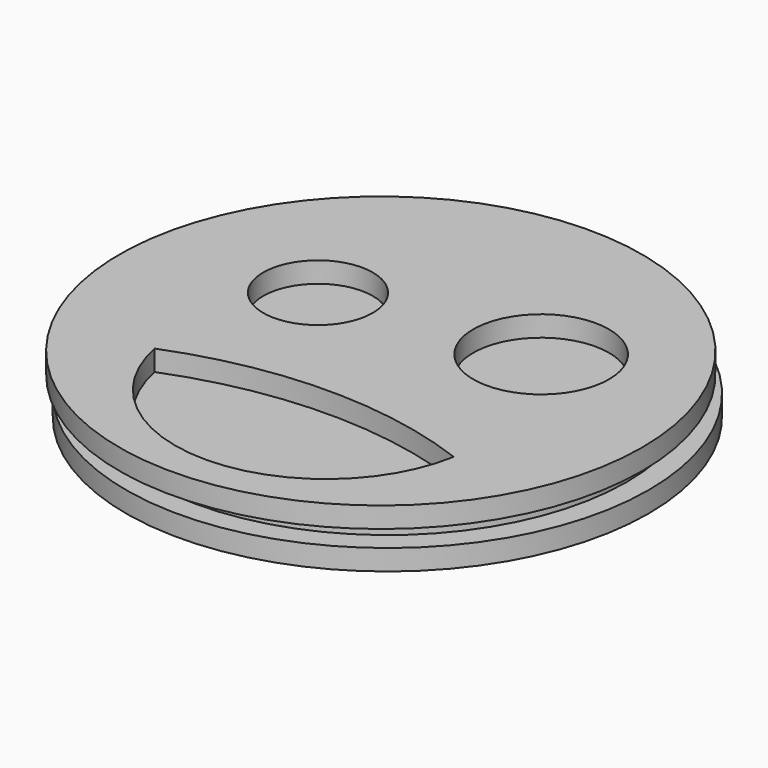
from build123d import *

# Parameters (mm, degrees)
F0_R     = 32.110996
F0_R_2   = 6.730617
F0_R_3   = 8.333871
F1_DEPTH = 2.54
F2_R     = 29.423189
F3_DEPTH = 2.54
F4_R     = 32.110996
F4_R_2   = 6.730617
F4_R_3   = 8.333871
F5_DEPTH = 2.54


with BuildPart() as f1:
    # F0 (on Top) → F1 (new body)
    with BuildSketch(Plane.XY):
        Circle(F0_R)
        with BuildLine():
            ThreePointArc((19.2024, -12.8016), (1.125659, -28.124711), (-17.2466, -13.1572))
            ThreePointArc((-17.2466, -13.1572), (0.944805, -9.587197), (19.2024, -12.8016))
        make_face(mode=Mode.SUBTRACT)
        with Locations((-12.268201, 5.6896)):
            Circle(F0_R_2, mode=Mode.SUBTRACT)
        with Locations((12.445999, 9.067801)):
            Circle(F0_R_3, mode=Mode.SUBTRACT)
    extrude(amount=F1_DEPTH)


with BuildPart() as f3:
    # F2 (on face) → F3 (new body)
    with BuildSketch(Plane.XY.offset(2.54)):
        Circle(F2_R)
    extrude(amount=F3_DEPTH)


with BuildPart() as f5:
    # F4 (on face) → F5 (new body)
    with BuildSketch(Plane.XY.offset(5.08)):
        with Locations((0.085035, -1.120056)):
            Circle(F4_R)
        with BuildLine():
            ThreePointArc((19.287435, -13.921655), (1.210694, -29.244767), (-17.161566, -14.277256))
            ThreePointArc((-17.161566, -14.277256), (1.02984, -10.707252), (19.287435, -13.921655))
        make_face(mode=Mode.SUBTRACT)
        with Locations((-12.183166, 4.569544)):
            Circle(F4_R_2, mode=Mode.SUBTRACT)
        with Locations((12.531034, 7.947745)):
            Circle(F4_R_3, mode=Mode.SUBTRACT)
    extrude(amount=F5_DEPTH)


solid = Compound([f1.part, f3.part, f5.part])
